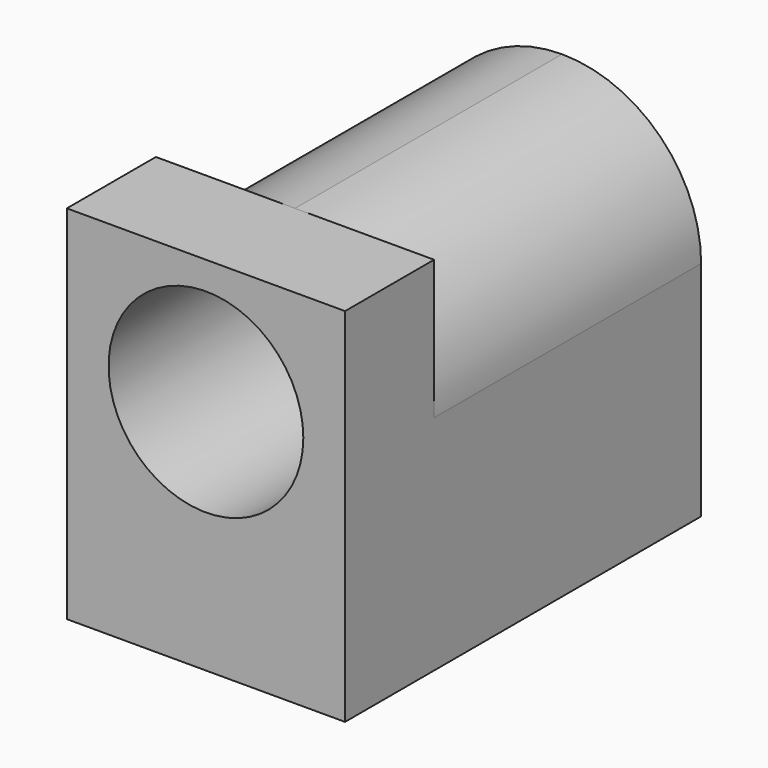
from build123d import *

# Parameters (mm, degrees)
F0_W     = 7.9375
F0_H     = 6.35
F1_DEPTH = 9.525
F3_W     = 7.9375
F3_H     = 10.31875
F4_DEPTH = 3.175
F5_R     = 2.778125
F6_DEPTH = 11.43


with BuildPart() as f1:
    # F0 (on Front) → F1 (new body)
    with BuildSketch(Plane.XZ):
        with Locations((-15.998094, -4.638754)):
            Rectangle(F0_W, F0_H)
        with BuildLine():
            ThreePointArc((-15.998094, 2.504996), (-18.804425, 1.342576), (-19.966844, -1.463754))
            Line((-19.966844, -1.463754), (-12.029344, -1.463754))
            ThreePointArc((-12.029344, -1.463754), (-13.191764, 1.342576), (-15.998094, 2.504996))
        make_face()
    extrude(amount=F1_DEPTH)

    # F3 (on face) → F4 (join)
    with BuildSketch(Plane.XZ.offset(9.525)):
        with Locations((-15.998094, -2.654379)):
            Rectangle(F3_W, F3_H)
    extrude(amount=F4_DEPTH)

    # F5 (on face) → F6 (cut)
    with BuildSketch(Plane.XZ.offset(12.7)):
        with Locations((-15.998094, -1.066879)):
            Circle(F5_R)
    extrude(amount=-F6_DEPTH, mode=Mode.SUBTRACT)


solid = f1.part
